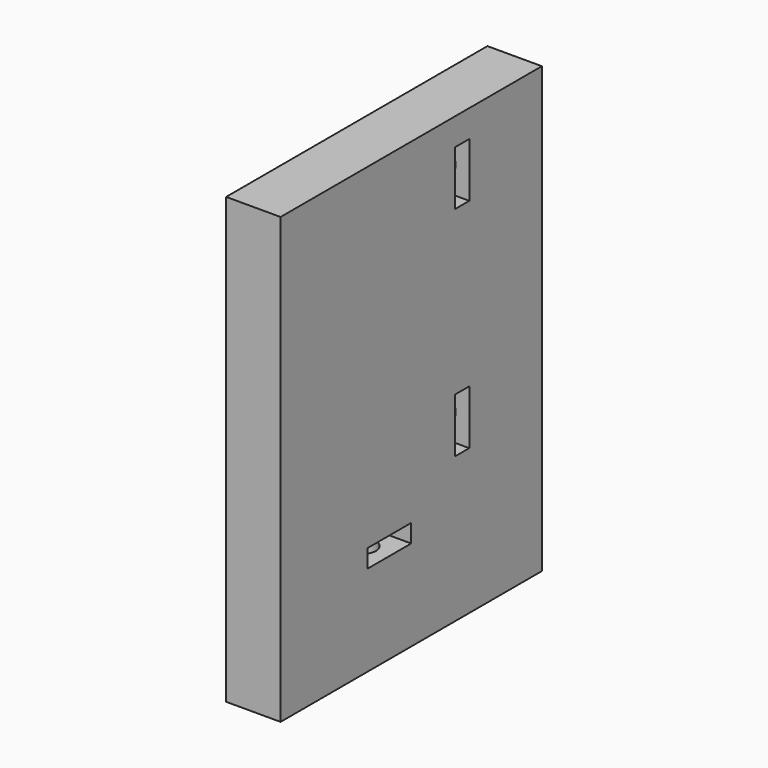
from build123d import *

# Parameters (mm, degrees)
CYLINDER1880_R               = 1.5
CYLINDER1880_DEPTH           = 50
CYLINDER1881_R               = 1.5
CYLINDER1881_DEPTH           = 50
CYLINDER1882_R               = 1.5
CYLINDER1882_DEPTH           = 50
CYLINDER1879_R               = 1.5
CYLINDER1879_DEPTH           = 50
BOX788_W                     = 2
BOX788_H                     = 6
BOX788_DEPTH                 = 6
BOX791_W                     = 2
BOX791_H                     = 6
BOX791_DEPTH                 = 6
BOX790_W                     = 2
BOX790_H                     = 6
BOX790_DEPTH                 = 6
BOX789_W                     = 2
BOX789_H                     = 6
BOX789_DEPTH                 = 6
BOX779_W                     = 6
BOX779_H                     = 8
BOX779_DEPTH                 = 2
CYLINDER1877_R               = 1.5
CYLINDER1877_DEPTH           = 50
CYLINDER1877_PLACEMENT_ANGLE = 45
BOX778_W                     = 49
BOX778_H                     = 36
BOX778_DEPTH                 = 6


with BuildPart() as obj1:
    # Cylinder1880 → Cylinder1880 (new body)
    with BuildSketch(Plane(origin=(-31, 150, 72), x_dir=(1, 0, 0), z_dir=(0, -1, 0))):
        Circle(CYLINDER1880_R)
    extrude(amount=CYLINDER1880_DEPTH)


with BuildPart() as obj2:
    # Cylinder1881 → Cylinder1881 (new body)
    with BuildSketch(Plane(origin=(31, 150, 48), x_dir=(1, 0, 0), z_dir=(0, -1, 0))):
        Circle(CYLINDER1881_R)
    extrude(amount=CYLINDER1881_DEPTH)


with BuildPart() as obj3:
    # Cylinder1882 → Cylinder1882 (new body)
    with BuildSketch(Plane(origin=(31, 150, 72), x_dir=(1, 0, 0), z_dir=(0, -1, 0))):
        Circle(CYLINDER1882_R)
    extrude(amount=CYLINDER1882_DEPTH)


with BuildPart() as compound945:
    # Cylinder1879 → Cylinder1879 (new body)
    with BuildSketch(Plane(origin=(-31, 150, 48), x_dir=(1, 0, 0), z_dir=(0, -1, 0))):
        Circle(CYLINDER1879_R)
    extrude(amount=CYLINDER1879_DEPTH)

    # Compound945: union obj1, obj2, obj3
    add(obj1.part)
    add(obj2.part)
    add(obj3.part)


with BuildPart() as krychle788:
    # Box788 → Box788 (new body)
    with BuildSketch(Plane(origin=(-28, 110, 69), x_dir=(0, 1, 0), z_dir=(0, 0, 1))):
        with Locations((1, 3)):
            Rectangle(BOX788_W, BOX788_H)
    extrude(amount=BOX788_DEPTH)


with BuildPart() as krychle791:
    # Box791 → Box791 (new body)
    with BuildSketch(Plane(origin=(34, 110, 45), x_dir=(0, 1, 0), z_dir=(0, 0, 1))):
        with Locations((1, 3)):
            Rectangle(BOX791_W, BOX791_H)
    extrude(amount=BOX791_DEPTH)


with BuildPart() as krychle790:
    # Box790 → Box790 (new body)
    with BuildSketch(Plane(origin=(34, 110, 69), x_dir=(0, 1, 0), z_dir=(0, 0, 1))):
        with Locations((1, 3)):
            Rectangle(BOX790_W, BOX790_H)
    extrude(amount=BOX790_DEPTH)


with BuildPart() as compound944:
    # Box789 → Box789 (new body)
    with BuildSketch(Plane(origin=(-28, 110, 45), x_dir=(0, 1, 0), z_dir=(0, 0, 1))):
        with Locations((1, 3)):
            Rectangle(BOX789_W, BOX789_H)
    extrude(amount=BOX789_DEPTH)

    # Compound944: union Krychle788, Krychle791, Krychle790
    add(krychle788.part)
    add(krychle791.part)
    add(krychle790.part)


with BuildPart() as compound940:
    # Box779 → Box779 (new body)
    with BuildSketch(Plane(origin=(35, 98, 39), x_dir=(0, 1, 0), z_dir=(0, 0, 1))):
        with Locations((3, 4)):
            Rectangle(BOX779_W, BOX779_H)
    extrude(amount=BOX779_DEPTH)


with BuildPart() as compound943:
    # Cylinder1877 → Cylinder1877 (new body)
    with BuildSketch(Plane.XY):
        Circle(CYLINDER1877_R)
    extrude(amount=CYLINDER1877_DEPTH)


with BuildPart() as compound943_1:
    # Cylinder1877 placement: moved
    add(compound943.part.moved(Location((31, 101, 0))).rotate(Axis((31, 101, 0), (0, 0, 1)), CYLINDER1877_PLACEMENT_ANGLE))


with BuildPart() as cut597:
    # Box778 → Box778 (new body)
    with BuildSketch(Plane(origin=(28, 86, 78), x_dir=(0, 0, -1), z_dir=(1, 0, 0))):
        with Locations((24.5, 18)):
            Rectangle(BOX778_W, BOX778_H)
    extrude(amount=BOX778_DEPTH)

    # Cut587: cut Compound943
    add(compound943_1.part, mode=Mode.SUBTRACT)

    # Cut585: cut Compound940
    add(compound940.part, mode=Mode.SUBTRACT)

    # Cut596: cut Compound944
    add(compound944.part, mode=Mode.SUBTRACT)

    # Cut597: cut Compound945
    add(compound945.part, mode=Mode.SUBTRACT)


solid = cut597.part
